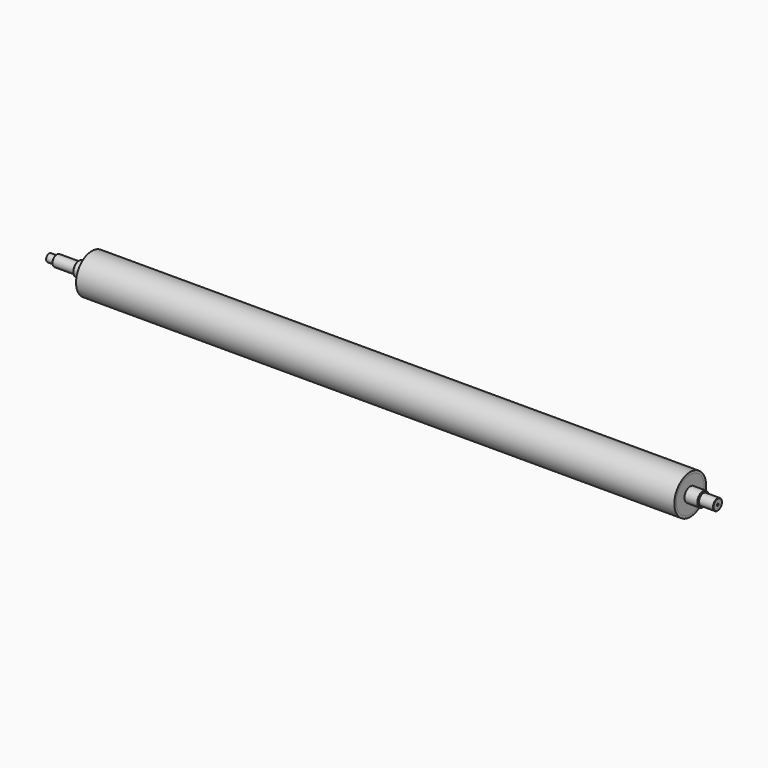
from build123d import *

# Parameters (mm, degrees)
F0_R      = 79
F1_DEPTH  = 1357
F2_R      = 32.5
F3_DEPTH  = 60
F4_SIZE   = 2
F5_R      = 25
F6_DEPTH  = 65
F7_SIZE   = 1.5
F8_R      = 32.5
F9_DEPTH  = 60
F10_R     = 25
F11_DEPTH = 100
F12_R     = 17.5
F13_DEPTH = 35
F14_SIZE  = 2
F15_SIZE  = 1.5
F16_R     = 5
F17_DEPTH = 3034.001
F18_R     = 90
F18_R_2   = 79
F19_DEPTH = 2714


with BuildPart() as f1:
    # F0 (on Right) → F1 (new body, symmetric)
    with BuildSketch(Plane.YZ):
        Circle(F0_R)
    extrude(amount=F1_DEPTH, both=True)

    # F2 (on face) → F3 (join)
    with BuildSketch(Plane.YZ.offset(1357)):
        Circle(F2_R)
    extrude(amount=F3_DEPTH)

    # F4
    f4_edges = [f1.edges().sort_by_distance(p)[0] for p in [
        (1417, -32.5, 0),
    ]]
    chamfer(f4_edges, length=F4_SIZE)

    # F5 (on face) → F6 (join)
    with BuildSketch(Plane.YZ.offset(1417)):
        Circle(F5_R)
    extrude(amount=F6_DEPTH)

    # F7
    f7_edges = [f1.edges().sort_by_distance(p)[0] for p in [
        (1482, -25, 0),
    ]]
    chamfer(f7_edges, length=F7_SIZE)

    # F8 (on face) → F9 (join)
    with BuildSketch(Plane(origin=(-1357, 0, 0), x_dir=(0, -1, 0), z_dir=(-1, 0, 0))):
        Circle(F8_R)
    extrude(amount=F9_DEPTH)

    # F10 (on face) → F11 (join)
    with BuildSketch(Plane(origin=(-1417, 0, 0), x_dir=(0, -1, 0), z_dir=(-1, 0, 0))):
        Circle(F10_R)
    extrude(amount=F11_DEPTH)

    # F12 (on face) → F13 (join)
    with BuildSketch(Plane(origin=(-1517, 0, 0), x_dir=(0, -1, 0), z_dir=(-1, 0, 0))):
        Circle(F12_R)
    extrude(amount=F13_DEPTH)

    # F14
    f14_edges = [f1.edges().sort_by_distance(p)[0] for p in [
        (-1417, 32.5, 0),
    ]]
    chamfer(f14_edges, length=F14_SIZE)

    # F15
    f15_edges = [f1.edges().sort_by_distance(p)[0] for p in [
        (-1517, 25, 0),
        (-1552, 17.5, 0),
    ]]
    chamfer(f15_edges, length=F15_SIZE)

    # F16 (on face) → F17 (cut, through all)
    with BuildSketch(Plane.YZ.offset(1482)):
        Circle(F16_R)
    extrude(amount=-F17_DEPTH, mode=Mode.SUBTRACT)


with BuildPart() as f19:
    # F18 (on face) → F19 (new body, through all)
    with BuildSketch(Plane.YZ.offset(1357)):
        Circle(F18_R)
        Circle(F18_R_2, mode=Mode.SUBTRACT)
    extrude(amount=-F19_DEPTH)


solid = Compound([f1.part, f19.part])
